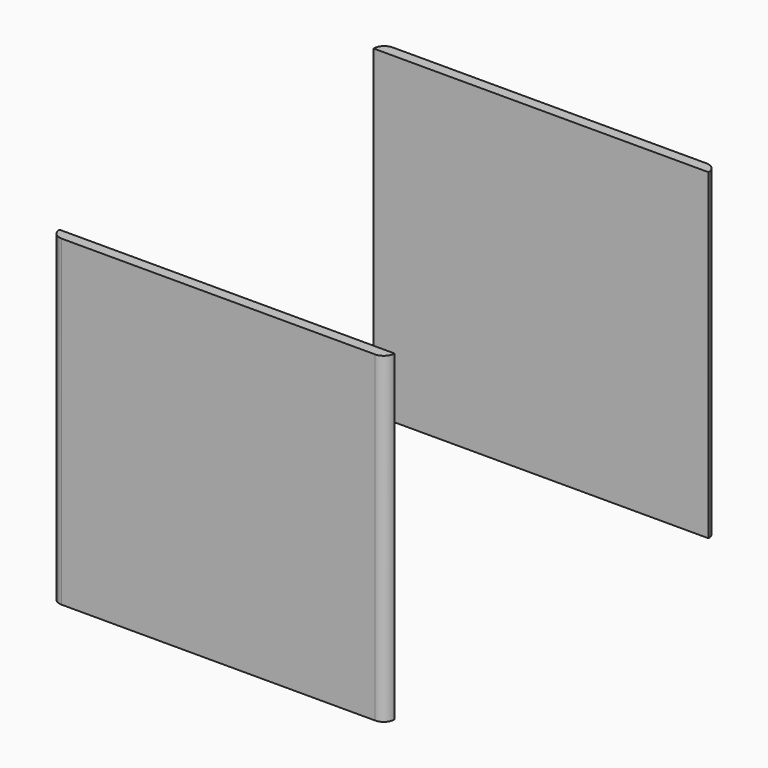
from build123d import *

# Parameters (mm, degrees)
F0_W      = 62.360742
F0_H      = 77.068456
F0_W_2    = 39.41669
F0_H_2    = 51.771178
F1_DEPTH  = 60
F2_R      = 2
F1_FACE_W = 73.068456
F1_FACE_H = 60
F3_DEPTH  = 70


with BuildPart() as f1:
    # F0 (on Top) → F1 (new body)
    with BuildSketch(Plane.XY):
        Rectangle(F0_W, F0_H)
        Rectangle(F0_W_2, F0_H_2, mode=Mode.SUBTRACT)
    extrude(amount=F1_DEPTH)

    # F2
    f2_edges = [f1.edges().sort_by_distance(p)[0] for p in [
        (-31.180371, 38.534228, 30),
        (-31.180371, -38.534228, 30),
        (31.180371, -38.534228, 30),
        (31.180371, 38.534228, 30),
    ]]
    fillet(f2_edges, radius=F2_R)

    # F1_face (on face) → F3 (cut)
    with BuildSketch(Plane(origin=(31.180371, 0, 30), x_dir=(0, 1, 0), z_dir=(1, 0, 0))):
        Rectangle(F1_FACE_W, F1_FACE_H)
    extrude(amount=-F3_DEPTH, mode=Mode.SUBTRACT)


solid = f1.part
